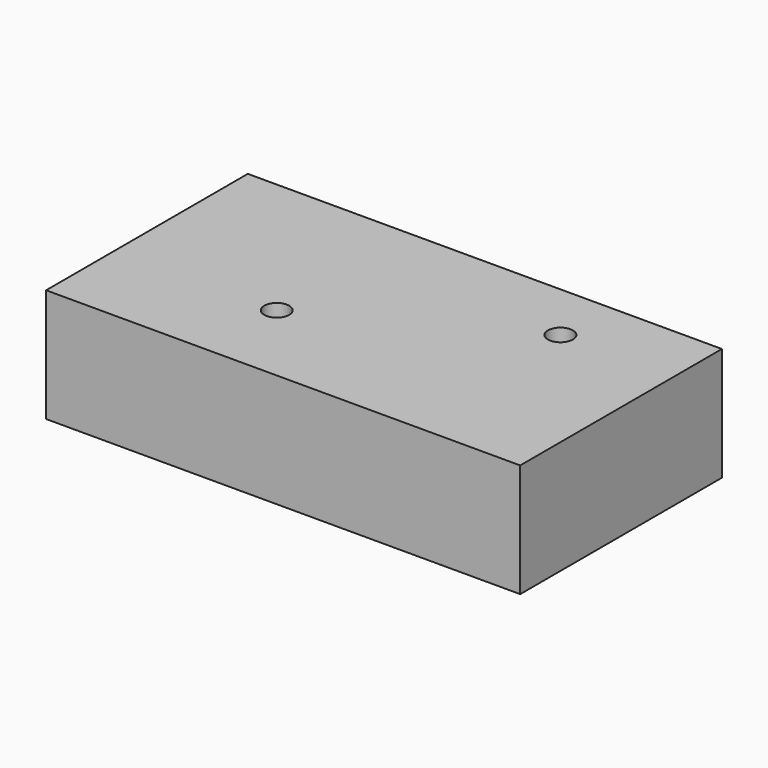
from build123d import *

# Parameters (mm, degrees)
F1_DEPTH       = 25
F2_D           = 5.5
F2_CSINK_D     = 11.2
F2_CSINK_ANGLE = 90


with BuildPart() as f1:
    # F0 (on Top) → F1 (new body)
    with BuildSketch(Plane.XY):
        Polygon((1.8908311613, -27.8043653816), (52.2800497711, -27.8043653816), (52.2800497711, 27.8043653816), (-16.5963244791, -8.826507852), align=None)
        Polygon((-52.2800497711, -27.8043653816), (1.8908311613, -27.8043653816), (-16.5963244791, -8.826507852), align=None)
        Polygon((-52.2800497711, 27.8043653816), (-52.2800497711, -27.8043653816), (-16.5963244791, -8.826507852), align=None)
        Polygon((-16.5963244791, -8.826507852), (52.2800497711, 27.8043653816), (-52.2800497711, 27.8043653816), align=None)
        Polygon((1.8908311613, -27.8043653816), (52.2800497711, -27.8043653816), (52.2800497711, 27.8043653816), (-16.5963244791, -8.826507852), align=None)
    extrude(amount=F1_DEPTH)

    # F2 (through all)
    with Locations(Plane(origin=(0, 0, 0), x_dir=(1, 0, 0), z_dir=(0, 0, -1))):
        with Locations((27.2964816114, -14.5172269666), (-16.5963244791, 8.826507852)):
            CounterSinkHole(F2_D / 2, F2_CSINK_D / 2, counter_sink_angle=F2_CSINK_ANGLE)


solid = f1.part
